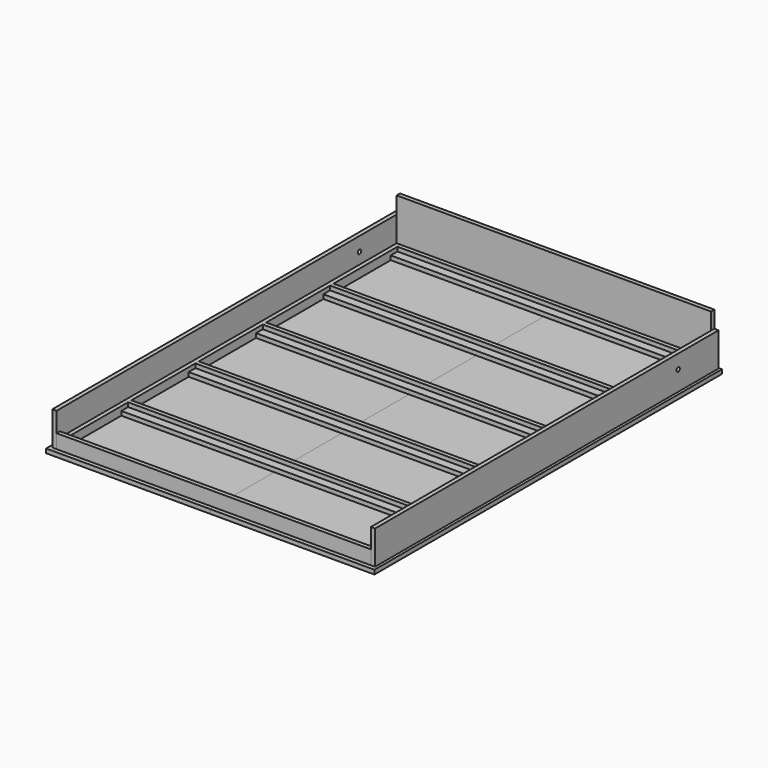
from build123d import *

# Parameters (mm, degrees)
F0_W           = 1384.3
F0_H           = 19.05
F1_DEPTH       = 38.1
F2_DEPTH       = 38.1
F0_H_2         = 38.1
F3_DEPTH       = 19.05
F4_DEPTH       = 228.6
F5_DEPTH       = 63.5
F6_DEPTH       = 152.4
F7_W           = 742.95
F7_H           = 1965.325
F8_DEPTH       = 19.05
F9_DEPTH       = 19.05
F10_R          = 9.525
F11_DEPTH      = 31.751
F11_DEPTH_BACK = 1454.151


with BuildPart() as f1:
    # F0 (on Top) → F1 (new body)
    with BuildSketch(Plane.XY):
        with Locations((711.2, -9.525)):
            Rectangle(F0_W, F0_H)
    extrude(amount=F1_DEPTH)


with BuildPart() as f1b:
    # F0 (on Top) → F1, piece 2 (new body)
    with BuildSketch(Plane.XY):
        with Locations((711.2, -390.525)):
            Rectangle(F0_W, F0_H)
    extrude(amount=F1_DEPTH)


with BuildPart() as f1c:
    # F0 (on Top) → F1, piece 3 (new body)
    with BuildSketch(Plane.XY):
        with Locations((711.2, -771.525)):
            Rectangle(F0_W, F0_H)
    extrude(amount=F1_DEPTH)


with BuildPart() as f1d:
    # F0 (on Top) → F1, piece 4 (new body)
    with BuildSketch(Plane.XY):
        with Locations((711.2, -1152.525)):
            Rectangle(F0_W, F0_H)
    extrude(amount=F1_DEPTH)


with BuildPart() as f1e:
    # F0 (on Top) → F1, piece 5 (new body)
    with BuildSketch(Plane.XY):
        with Locations((711.2, -1533.525)):
            Rectangle(F0_W, F0_H)
    extrude(amount=F1_DEPTH)


with BuildPart() as f1f:
    # F0 (on Top) → F1, piece 6 (new body)
    with BuildSketch(Plane.XY):
        with Locations((711.2, -1895.475)):
            Rectangle(F0_W, F0_H)
    extrude(amount=F1_DEPTH)


with BuildPart() as f2:
    # F0 (on Top) → F2 (new body)
    with BuildSketch(Plane.XY):
        Polygon((19.05, -19.05), (19.05, 0), (0, 0), (0, -1905), (19.05, -1905), (19.05, -1885.95), (19.05, -1847.85), (19.05, -1581.15), (19.05, -1543.05), (19.05, -1524), (19.05, -1200.15), (19.05, -1162.05), (19.05, -1143), (19.05, -819.15), (19.05, -781.05), (19.05, -762), (19.05, -438.15), (19.05, -400.05), (19.05, -381), (19.05, -57.15), align=None)
    extrude(amount=F2_DEPTH)


with BuildPart() as f2b:
    # F0 (on Top) → F2, piece 2 (new body)
    with BuildSketch(Plane.XY):
        Polygon((1422.4, 0), (1403.35, 0), (1403.35, -19.05), (1403.35, -57.15), (1403.35, -381), (1403.35, -400.05), (1403.35, -438.15), (1403.35, -762), (1403.35, -781.05), (1403.35, -819.15), (1403.35, -1143), (1403.35, -1162.05), (1403.35, -1200.15), (1403.35, -1524), (1403.35, -1543.05), (1403.35, -1581.15), (1403.35, -1847.85), (1403.35, -1885.95), (1403.35, -1905), (1422.4, -1905), align=None)
    extrude(amount=F2_DEPTH)


with BuildPart() as f3:
    # F0 (on Top) → F3 (new body)
    with BuildSketch(Plane.XY):
        with Locations((711.2, -38.1)):
            Rectangle(F0_W, F0_H_2)
    extrude(amount=F3_DEPTH)


with BuildPart() as f3b:
    # F0 (on Top) → F3, piece 2 (new body)
    with BuildSketch(Plane.XY):
        with Locations((711.2, -419.1)):
            Rectangle(F0_W, F0_H_2)
    extrude(amount=F3_DEPTH)


with BuildPart() as f3c:
    # F0 (on Top) → F3, piece 3 (new body)
    with BuildSketch(Plane.XY):
        with Locations((711.2, -800.1)):
            Rectangle(F0_W, F0_H_2)
    extrude(amount=F3_DEPTH)


with BuildPart() as f3d:
    # F0 (on Top) → F3, piece 4 (new body)
    with BuildSketch(Plane.XY):
        with Locations((711.2, -1181.1)):
            Rectangle(F0_W, F0_H_2)
    extrude(amount=F3_DEPTH)


with BuildPart() as f3e:
    # F0 (on Top) → F3, piece 5 (new body)
    with BuildSketch(Plane.XY):
        with Locations((711.2, -1562.1)):
            Rectangle(F0_W, F0_H_2)
    extrude(amount=F3_DEPTH)


with BuildPart() as f3f:
    # F0 (on Top) → F3, piece 6 (new body)
    with BuildSketch(Plane.XY):
        with Locations((711.2, -1866.9)):
            Rectangle(F0_W, F0_H_2)
    extrude(amount=F3_DEPTH)


with BuildPart() as f4:
    # F0 (on Top) → F4 (new body)
    with BuildSketch(Plane.XY):
        Polygon((0, 0), (19.05, 0), (1403.35, 0), (1422.4, 0), (1422.4, 19.05), (0, 19.05), align=None)
    extrude(amount=F4_DEPTH)


with BuildPart() as f5:
    # F0 (on Top) → F5 (new body)
    with BuildSketch(Plane.XY):
        Polygon((19.05, -1905), (0, -1905), (0, -1924.05), (1422.4, -1924.05), (1422.4, -1905), (1403.35, -1905), align=None)
    extrude(amount=F5_DEPTH)


with BuildPart() as f6:
    # F0 (on Top) → F6 (new body)
    with BuildSketch(Plane.XY):
        Polygon((1422.4, 19.05), (1422.4, 0), (1422.4, -1905), (1422.4, -1924.05), (1441.45, -1924.05), (1441.45, 19.05), align=None)
    extrude(amount=F6_DEPTH)


with BuildPart() as f6b:
    # F0 (on Top) → F6, piece 2 (new body)
    with BuildSketch(Plane.XY):
        Polygon((0, -1905), (0, 0), (0, 19.05), (-19.05, 19.05), (-19.05, -1924.05), (0, -1924.05), align=None)
    extrude(amount=F6_DEPTH)


with BuildPart() as f8:
    # F7 (on Top) → F8 (new body)
    with BuildSketch(Plane.XY):
        with Locations((339.725, -960.4375)):
            Rectangle(F7_W, F7_H)
    extrude(amount=-F8_DEPTH)


with BuildPart() as f9:
    # F7 (on Top) → F9 (new body)
    with BuildSketch(Plane.XY):
        with Locations((1082.675, -960.4375)):
            Rectangle(F7_W, F7_H)
    extrude(amount=-F9_DEPTH)


with BuildPart() as f11_tool:
    # F10 (on face) → F11 (new body, two sides)
    with BuildSketch(Plane(origin=(1422.4, 0, 0), x_dir=(0, -1, 0), z_dir=(-1, 0, 0))) as f11_sk:
        with Locations((209.55, 88.9)):
            Circle(F10_R)
    extrude(amount=-F11_DEPTH)
    extrude(f11_sk.sketch, amount=F11_DEPTH_BACK)


with BuildPart() as f6_1:
    add(f6.part)

    # F11: cut by f11_tool
    add(f11_tool.part, mode=Mode.SUBTRACT)


with BuildPart() as f6b_1:
    add(f6b.part)

    # F11: cut by f11_tool
    add(f11_tool.part, mode=Mode.SUBTRACT)


solid = Compound([f1.part, f1b.part, f1c.part, f1d.part, f1e.part, f1f.part, f2.part, f2b.part, f3.part, f3b.part, f3c.part, f3d.part, f3e.part, f3f.part, f4.part, f5.part, f8.part, f9.part, f6_1.part, f6b_1.part])
